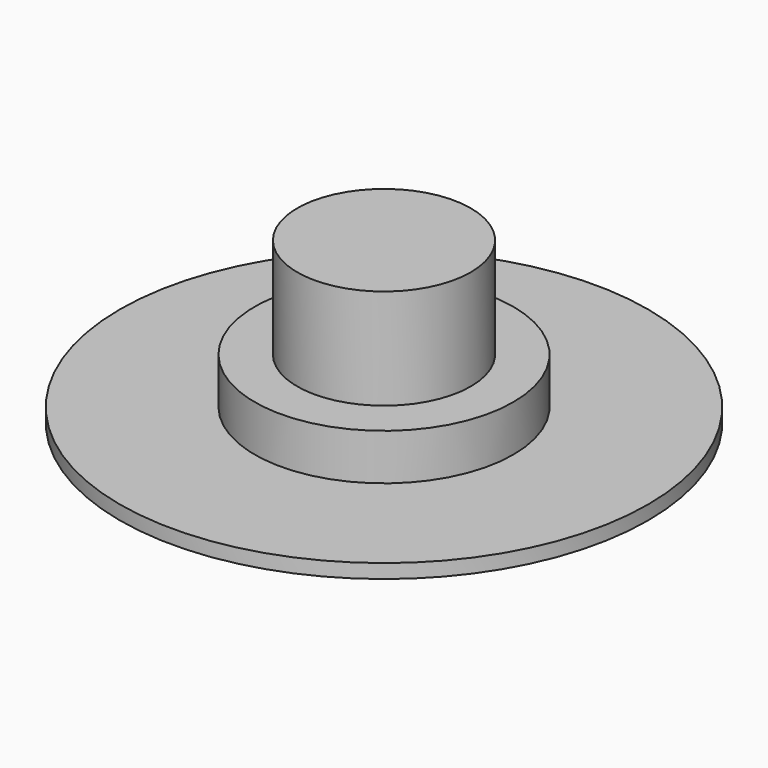
from build123d import *

# Parameters (mm, degrees)
F0_R      = 4.325
F1_DEPTH  = 3
F0_R_2    = 5
F1_FACE_R = 4.325
F2_DEPTH  = 0.7
F0_R_3    = 13.1400703873
F0_R_4    = 6.4331806046
F0_R_5    = 4.3173351149
F3_DEPTH  = 8
F4_DEPTH  = 3
F7_W      = 1.5792734921
F7_H      = 3.3408720046
F8_DEPTH  = 0.5


with BuildPart() as f1:
    # F0 (on Top) → F1 (new body)
    with BuildSketch(Plane.XY):
        Circle(F0_R)
    extrude(amount=-F1_DEPTH)

    # F0 (on Top) + F1_face (on face) → F2 (join)
    with BuildSketch(Plane.XY):
        Circle(F0_R_2)
        Circle(F0_R, mode=Mode.SUBTRACT)
    with BuildSketch(Plane.XY):
        Circle(F1_FACE_R)
    extrude(amount=F2_DEPTH)


with BuildPart() as f2:
    # F0 (on Top) → F2, piece 2 (new body)
    with BuildSketch(Plane.XY):
        with Locations((-35.7068367302, -21.6784439981)):
            Circle(F0_R_3)
        with Locations((-35.7068367302, -21.6784439981)):
            Circle(F0_R_4, mode=Mode.SUBTRACT)
    extrude(amount=F2_DEPTH)


with BuildPart() as f3:
    # F0 (on Top) → F3 (new body)
    with BuildSketch(Plane.XY):
        with Locations((-35.7068367302, -21.6784439981)):
            Circle(F0_R_5)
    extrude(amount=F3_DEPTH)


with BuildPart() as f4:
    # F0 (on Top) → F4 (new body)
    with BuildSketch(Plane.XY):
        with Locations((-35.7068367302, -21.6784439981)):
            Circle(F0_R_4)
        with Locations((-35.7068367302, -21.6784439981)):
            Circle(F0_R_5, mode=Mode.SUBTRACT)
    extrude(amount=F4_DEPTH)


with BuildPart() as f2_1:
    add(f2.part)

    # F6: union F3, F4
    add(f3.part)
    add(f4.part)

    # F7 (on face) → F8 (cut)
    with BuildSketch(Plane(origin=(0, 0, 0), x_dir=(1, 0, 0), z_dir=(0, 0, -1))):
        with Locations((-36.0395330936, 20.4883767292)):
            Rectangle(F7_W, F7_H)
    extrude(amount=-F8_DEPTH, mode=Mode.SUBTRACT)


solid = f2_1.part
